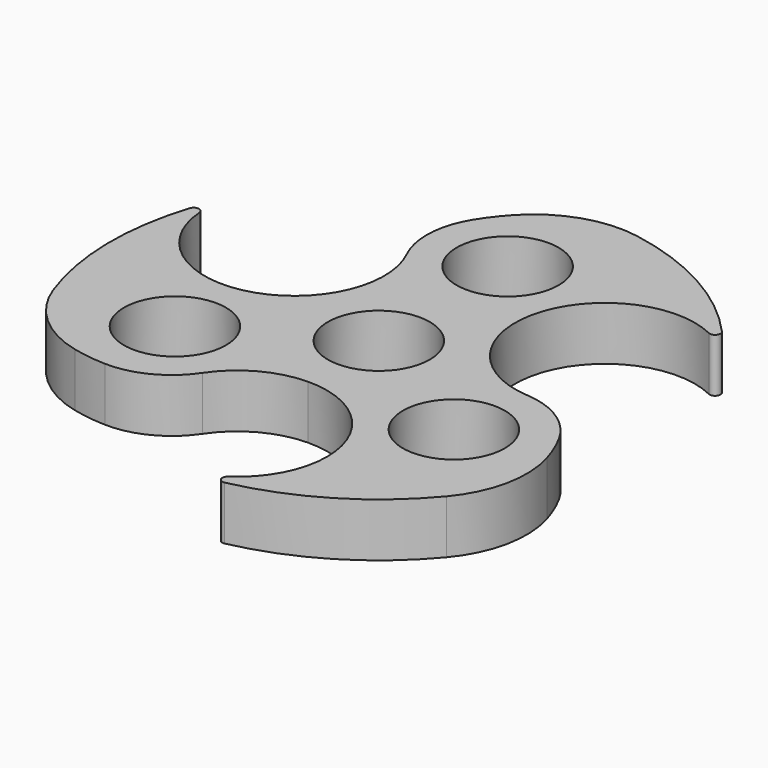
from build123d import *

# Parameters (mm, degrees)
F0_R     = 9.5
F1_DEPTH = 10


with BuildPart() as f1:
    # F0 (on Top) → F1 (new body)
    with BuildSketch(Plane.XY):
        with BuildLine():
            ThreePointArc((-45.603654, 15.217773), (-46.480887, 16.137107), (-47.551994, 15.45341))
            ThreePointArc((-47.551994, 15.45341), (-49.992271, -0.879128), (-46.979256, -17.115769))
            ThreePointArc((-46.979256, -17.115769), (-41.501628, -25.193784), (-32.853296, -29.717619))
            ThreePointArc((-32.853296, -29.717619), (-29.737157, -30.296193), (-26.577854, -30.548923))
            ThreePointArc((-26.577854, -30.548923), (-19.287217, -28.888307), (-13.704095, -23.914398))
            ThreePointArc((-13.704095, -23.914398), (-7.766577, -18.516867), (0, -16.5))
            ThreePointArc((0, -16.5), (16.184433, -28.225238), (9.622849, -47.102809))
            ThreePointArc((9.622849, -47.102809), (9.265298, -48.322182), (10.392951, -48.90794))
            ThreePointArc((10.392951, -48.90794), (25.757483, -42.855012), (38.312318, -32.127345))
            ThreePointArc((38.312318, -32.127345), (42.569271, -23.344572), (42.162861, -13.592979))
            ThreePointArc((42.162861, -13.592979), (41.105851, -10.605037), (39.74507, -7.742635))
            ThreePointArc((39.74507, -7.742635), (34.661617, -2.259066), (27.562523, 0.089105))
            ThreePointArc((27.562523, 0.089105), (12.499757, 21.089495), (35.980805, 31.885036))
            ThreePointArc((35.980805, 31.885036), (37.215588, 32.185075), (37.159042, 33.45453))
            ThreePointArc((37.159042, 33.45453), (24.234788, 43.734141), (8.666937, 49.243113))
            ThreePointArc((8.666937, 49.243113), (-1.067643, 48.538356), (-9.309565, 43.310599))
            ThreePointArc((-9.309565, 43.310599), (-11.368694, 40.90123), (-13.167216, 38.291558))
            ThreePointArc((-13.167216, 38.291558), (-15.3744, 31.147374), (-13.858429, 23.825293))
            ThreePointArc((-13.858429, 23.825293), (-24.513917, 0.280359), (-45.603654, 15.217773))
        make_face()
        with Locations((-25.980762, -15)):
            Circle(F0_R, mode=Mode.SUBTRACT)
        Circle(F0_R, mode=Mode.SUBTRACT)
        with Locations((25.980762, -15)):
            Circle(F0_R, mode=Mode.SUBTRACT)
        with Locations((0, 30)):
            Circle(F0_R, mode=Mode.SUBTRACT)
    extrude(amount=F1_DEPTH)


solid = f1.part
